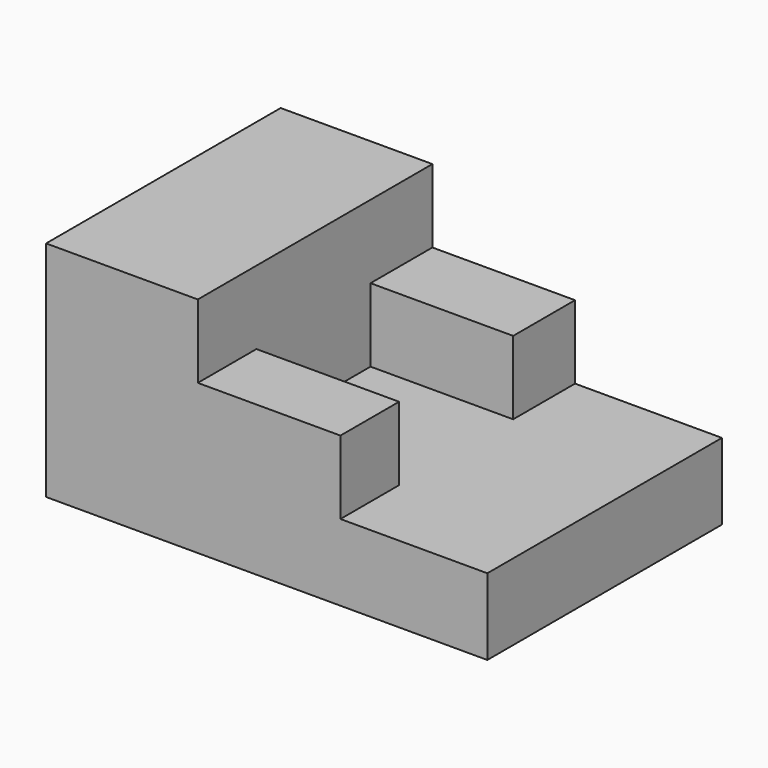
from build123d import *

# Parameters (mm, degrees)
F0_W     = 57.9882
F0_H     = 38.5318
F1_DEPTH = 10.033
F2_W     = 38.6842
F2_H     = 38.5318
F3_DEPTH = 9.652
F4_W     = 18.7452
F4_H     = 18.7452
F5_DEPTH = 9.652
F6_W     = 19.939
F6_H     = 38.5318
F7_DEPTH = 9.652


with BuildPart() as f1:
    # F0 (on Top) → F1 (new body)
    with BuildSketch(Plane.XY):
        Rectangle(F0_W, F0_H)
    extrude(amount=F1_DEPTH)

    # F2 (on face) → F3 (join)
    with BuildSketch(Plane.XY.offset(10.033)):
        with Locations((-9.652, 0)):
            Rectangle(F2_W, F2_H)
    extrude(amount=F3_DEPTH)

    # F4 (on face) → F5 (cut)
    with BuildSketch(Plane.XY.offset(19.685)):
        with Locations((0.3175, -0.2667)):
            Rectangle(F4_W, F4_H)
    extrude(amount=-F5_DEPTH, mode=Mode.SUBTRACT)

    # F6 (on face) → F7 (join)
    with BuildSketch(Plane.XY.offset(19.685)):
        with Locations((-19.0246, 0)):
            Rectangle(F6_W, F6_H)
    extrude(amount=F7_DEPTH)


solid = f1.part
